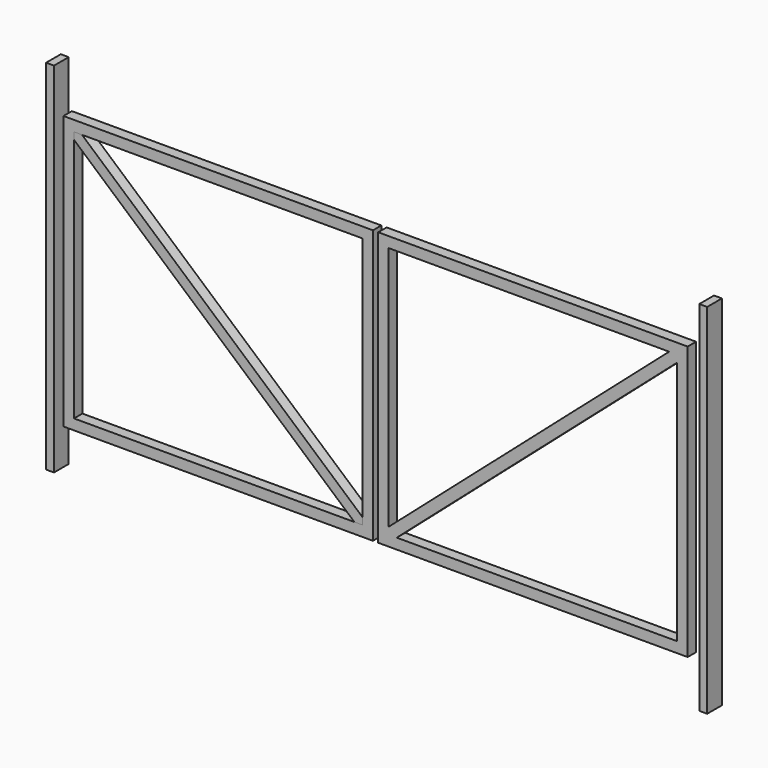
from build123d import *

# Parameters (mm, degrees)
F0_W     = 38.1
F0_H     = 1727.2
F1_DEPTH = 44.45
F3_W     = 1492.25
F3_H     = 1318.129241
F3_W_2   = 1390.65
F3_H_2   = 1216.529241
F4_DEPTH = 50.8
F6_DEPTH = 50.8


with BuildPart() as f1:
    # F0 (on Front) → F1 (new body, symmetric)
    with BuildSketch(Plane.XZ):
        with Locations((-1574.8, 14.621863)):
            Rectangle(F0_W, F0_H)
        with Locations((1574.8, 14.621863)):
            Rectangle(F0_W, F0_H)
    extrude(amount=F1_DEPTH, both=True)


with BuildPart() as f4:
    # F3 (on Front) → F4 (new body)
    with BuildSketch(Plane.XZ):
        with Locations((-758.825, 24.501056)):
            Rectangle(F3_W, F3_H)
        with Locations((-758.825, 24.501056)):
            Rectangle(F3_W_2, F3_H_2, mode=Mode.SUBTRACT)
        Polygon((12.7, -634.563565), (1504.77922, -634.563565), (1504.95, 683.565676), (12.7, 683.565676), align=None)
        Polygon((63.5, -583.763565), (63.5, 632.765676), (1454.143418, 632.765676), (1453.985801, -583.763565), align=None, mode=Mode.SUBTRACT)
    extrude(amount=F4_DEPTH)

    # F7: F6 across plane


with BuildPart() as f6:
    # F5 (on Front) → F6 (new body)
    with BuildSketch(Plane.XZ):
        Polygon((-63.5, -550.016334), (-1415.572557, 632.765676), (-1454.15, 632.765676), (-1454.15, 599.018445), (-102.077443, -583.763565), (-63.5, -583.763565), align=None)
    extrude(amount=F6_DEPTH)


with BuildPart() as f4_1:
    add(f4.part)
    add(f6.part.mirror(Plane.YZ))


solid = Compound([f1.part, f6.part, f4_1.part])
